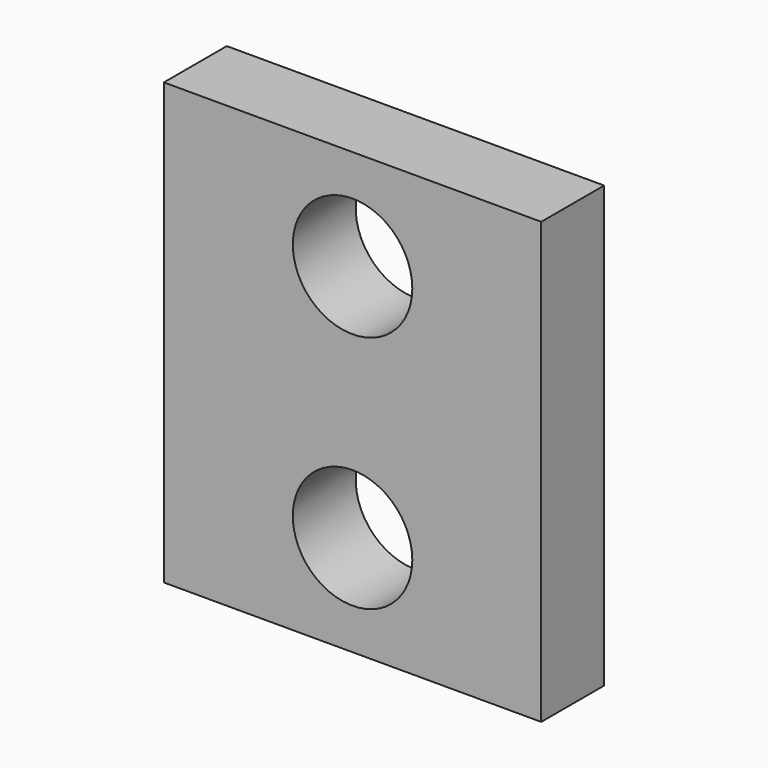
from build123d import *

# Parameters (mm, degrees)
F0_W     = 120
F0_H     = 140
F0_R     = 19
F1_DEPTH = 25
F2_DEPTH = 25


with BuildPart() as f1:
    # F0 (on Front) → F1 (new body)
    with BuildSketch(Plane.XZ):
        Rectangle(F0_W, F0_H)
        with Locations((0, -38)):
            Circle(F0_R, mode=Mode.SUBTRACT)
        with Locations((0, 38)):
            Circle(F0_R, mode=Mode.SUBTRACT)
    extrude(amount=F1_DEPTH)

    # F0 (on Front) → F2 (cut)
    with BuildSketch(Plane.XZ):
        with Locations((0, 38)):
            Circle(F0_R)
    extrude(amount=F2_DEPTH, mode=Mode.SUBTRACT)


solid = f1.part
